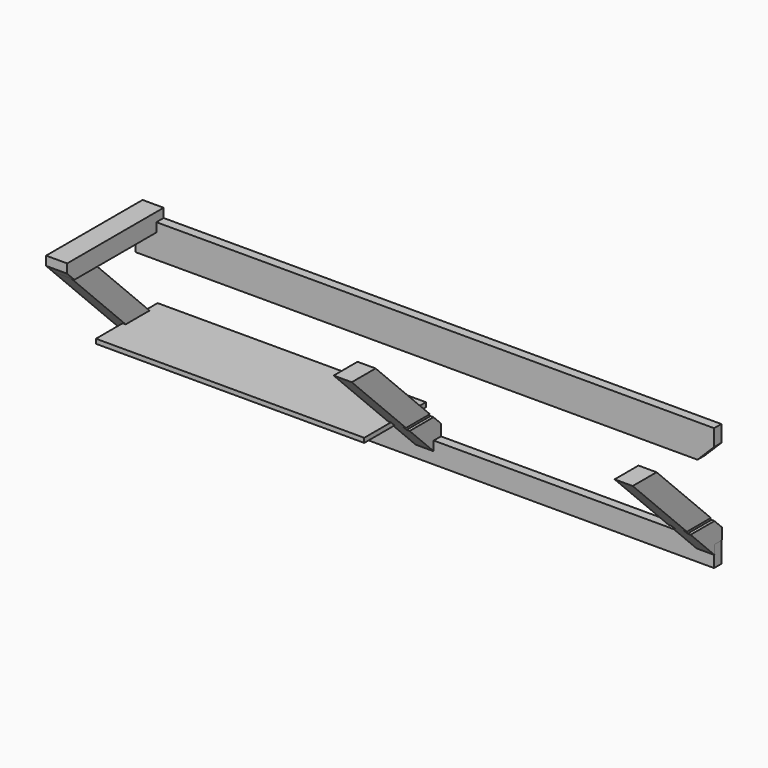
from build123d import *

# Parameters (mm, degrees)
F1_DEPTH  = 38.1
F3_DEPTH  = 88.9
F4_W      = 38.1
F4_H      = 88.9
F5_DEPTH  = 2438.4
F7_DEPTH  = 76.2
F8_DEPTH  = 2438.401
F10_W     = 12.7
F10_H     = 19.05
F11_DEPTH = 508.001
F12_W     = 12.7
F12_H     = 19.05
F13_DEPTH = 299.72
F15_DEPTH = 324.866


with BuildPart() as f1:
    # F0 (on Front) → F1 (new body)
    with BuildSketch(Plane.XZ):
        Polygon((2438.4, 0), (0, 0), (0, -139.7), (2368.55, -139.7), (2438.4, -69.85), align=None)
    extrude(amount=F1_DEPTH)


with BuildPart() as f3:
    # F2 (on Right) → F3 (new body)
    with BuildSketch(Plane.YZ):
        Polygon((-38.1, 0), (0, 0), (0, 38.1), (-508, 38.1), (-508, 0), align=None)
        Polygon((-38.1, -38.1), (-38.1, 0), (-508, 0), (-469.9, -38.1), align=None)
    extrude(amount=F3_DEPTH)


with BuildPart() as f5:
    # F4 (on Right) → F5 (new body)
    with BuildSketch(Plane.YZ):
        with Locations((-19.05, -474.4098038197)):
            Rectangle(F4_W, F4_H)
    extrude(amount=F5_DEPTH)


with BuildPart() as f7:
    # F6 (on Right) → F7 (new body)
    with BuildSketch(Plane.YZ):
        Polygon((-344.176414305, -38.1), (-469.9, -38.1), (0, -508), (0, -382.276414305), align=None)
    extrude(amount=F7_DEPTH)

    # F4 (on Right) → F8 (cut, through all)
    with BuildSketch(Plane.YZ):
        with Locations((-19.05, -474.4098038197)):
            Rectangle(F4_W, F4_H)
    extrude(amount=F8_DEPTH, mode=Mode.SUBTRACT)


with BuildPart() as f9_1:
    # F9: copy of F7
    add(f7.part.moved(Location((1181.1, 0, 0))))

    # F10 (on Front) → F11 (cut, through all)
    with BuildSketch(Plane.XZ):
        with Locations((1187.45, -333.375)):
            Rectangle(F10_W, F10_H)
        with Locations((1250.95, -333.375)):
            Rectangle(F10_W, F10_H)
    extrude(amount=F11_DEPTH, mode=Mode.SUBTRACT)


with BuildPart() as f7_1:
    add(f7.part)

    # F12 (on Front) → F13 (cut)
    with BuildSketch(Plane.XZ):
        with Locations((69.85, -333.375)):
            Rectangle(F12_W, F12_H)
    extrude(amount=F13_DEPTH, mode=Mode.SUBTRACT)


with BuildPart() as f15:
    # F14 (on Front) → F15 (new body)
    with BuildSketch(Plane.XZ):
        Polygon((1181.1, -342.9), (1193.8, -342.9), (1193.8, -323.85), (1181.1, -323.85), (63.5, -323.85), (63.5, -342.9), align=None)
    extrude(amount=F15_DEPTH)


with BuildPart() as f16_1:
    # F16: copy of F9_1
    add(f9_1.part.moved(Location((1183.64, 0, 0))))


solid = Compound([f1.part, f3.part, f5.part, f9_1.part, f7_1.part, f15.part, f16_1.part])
